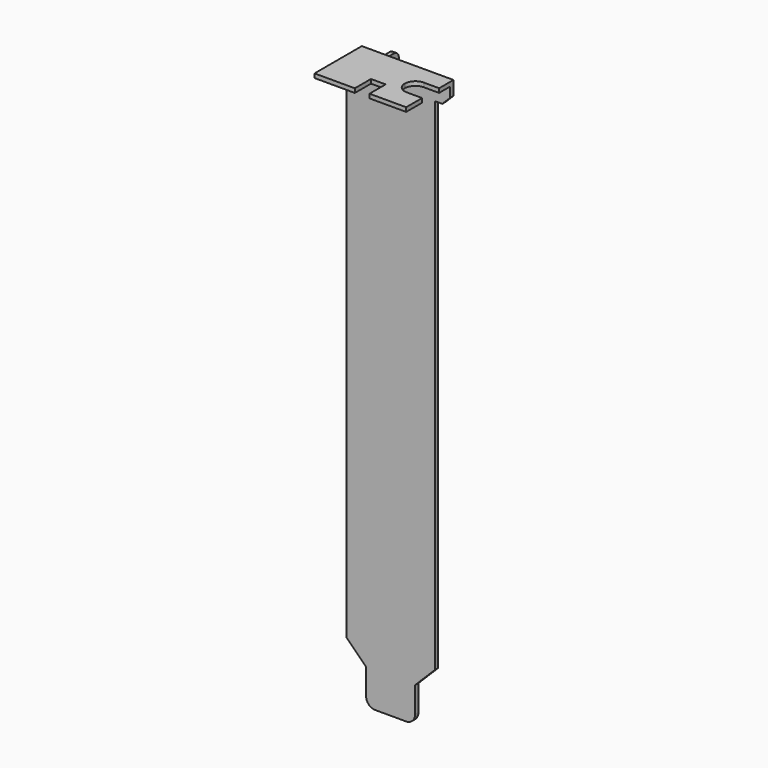
from build123d import *

# Parameters (mm, degrees)
PAD_DEPTH                 = 0.86
PAD002_DEPTH              = 0.86
FILLET_R                  = 2.2
FILLET001_R               = 1.9
CYLINDER_R                = 1.27
CYLINDER_DEPTH            = 10
BOX_W                     = 0.86
BOX_H                     = 12.57
BOX_DEPTH                 = 7.95
FILLET002_R               = 1.27
FILLET002_PLACEMENT_ANGLE = 180
CYLINDER001_R             = 1.27
CYLINDER001_DEPTH         = 10
BOX001_W                  = 0.86
BOX001_H                  = 12.57
BOX001_DEPTH              = 7.95
FILLET003_R               = 1.27
FILLET003_PLACEMENT_ANGLE = 180


with BuildPart() as body:
    # Sketch → Pad (new body)
    with BuildSketch(Plane.XZ):
        Polygon((0, 11.39), (4.12, 7.27), (4.12, 0), (14.31, 0), (14.31, 7.27), (18.42, 11.38), (18.42, 115.46), (19.95, 115.46), (21.59, 117.1), (21.59, 120.02), (2.54, 120.02), (2.54, 117.1), (0, 114.56), align=None)
    extrude(amount=PAD_DEPTH)


with BuildPart() as fillet001:
    # Sketch002 (on Face10 of Pad) → Pad002 (new body)
    with BuildSketch(Plane(origin=(0, 0, 120.02), x_dir=(-1, 0, 0), z_dir=(0, 0, 1))):
        Polygon((-21.59, 0.86), (-21.59, 3.73), (-16.21, 3.73), (-16.21, 8.15), (-21.59, 8.15), (-21.59, 12.29), (-13.97, 12.29), (-13.97, 8.1), (-10.92, 8.1), (-10.92, 12.29), (-2.54, 12.29), (-2.54, 0.86), align=None)
    extrude(amount=PAD002_DEPTH)


with BuildPart() as fillet001_1:
    # Body001 placement: moved
    add(fillet001.part.moved(Location((0, 0, -0.86))))

    # Fusion: union Body
    add(body.part)

    # Fillet
    fillet_edges = [fillet001_1.edges().sort_by_distance(p)[0] for p in [
        (16.21, -3.73, 119.59),
        (16.21, -8.15, 119.59),
    ]]
    fillet(fillet_edges, radius=FILLET_R)

    # Fillet001
    fillet001_edges = [fillet001_1.edges().sort_by_distance(p)[0] for p in [
        (4.12, -0.43, 0),
        (14.31, -0.43, 0),
    ]]
    fillet(fillet001_edges, radius=FILLET001_R)


with BuildPart() as cylinder:
    # Cylinder → Cylinder (new body)
    with BuildSketch(Plane(origin=(0, -9.4, 3.975), x_dir=(0, 0, -1), z_dir=(1, 0, 0))):
        Circle(CYLINDER_R)
    extrude(amount=CYLINDER_DEPTH)


with BuildPart() as fillet002:
    # Box → Box (new body)
    with BuildSketch(Plane(origin=(0, -12.57, 0), x_dir=(1, 0, 0), z_dir=(0, 0, 1))):
        with Locations((0.43, 6.285)):
            Rectangle(BOX_W, BOX_H)
    extrude(amount=BOX_DEPTH)

    # Cut: cut Cylinder
    add(cylinder.part, mode=Mode.SUBTRACT)

    # Fillet002
    fillet002_edges = [fillet002.edges().sort_by_distance(p)[0] for p in [
        (0.43, -12.57, 0),
        (0.43, -12.57, 7.95),
    ]]
    fillet(fillet002_edges, radius=FILLET002_R)


with BuildPart() as fillet002_1:
    # Fillet002 placement: moved
    add(fillet002.part.moved(Location((0.86, -0.86, 105.93))).rotate(Axis((0.86, -0.86, 105.93), (0, 0, 1)), FILLET002_PLACEMENT_ANGLE))


with BuildPart() as cylinder001:
    # Cylinder001 → Cylinder001 (new body)
    with BuildSketch(Plane(origin=(0, -9.4, 3.975), x_dir=(0, 0, -1), z_dir=(1, 0, 0))):
        Circle(CYLINDER001_R)
    extrude(amount=CYLINDER001_DEPTH)


with BuildPart() as obj1:
    # Box001 → Box001 (new body)
    with BuildSketch(Plane(origin=(0, -12.57, 0), x_dir=(1, 0, 0), z_dir=(0, 0, 1))):
        with Locations((0.43, 6.285)):
            Rectangle(BOX001_W, BOX001_H)
    extrude(amount=BOX001_DEPTH)

    # Cut001: cut Cylinder001
    add(cylinder001.part, mode=Mode.SUBTRACT)

    # Fillet003
    fillet003_edges = [obj1.edges().sort_by_distance(p)[0] for p in [
        (0.43, -12.57, 0),
        (0.43, -12.57, 7.95),
    ]]
    fillet(fillet003_edges, radius=FILLET003_R)


with BuildPart() as obj1_1:
    # Fillet003 placement: moved
    add(obj1.part.moved(Location((0.86, -0.86, 20.53))).rotate(Axis((0.86, -0.86, 20.53), (0, 0, 1)), FILLET003_PLACEMENT_ANGLE))

    # Fusion001: union Fillet001, Fillet002
    add(fillet001_1.part)
    add(fillet002_1.part)


solid = obj1_1.part
